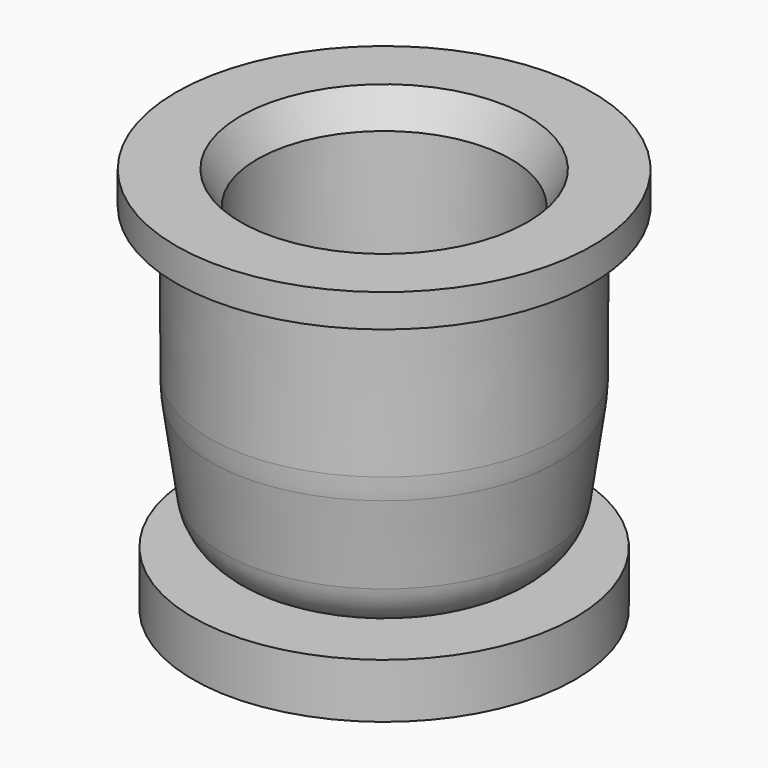
from build123d import *

# Parameters (mm, degrees)
F0_R     = 35
F1_DEPTH = 10


with BuildPart() as f1:
    # F0 (on Top) → F1 (new body)
    with BuildSketch(Plane.XY):
        Circle(F0_R)
    extrude(amount=F1_DEPTH)

    # F2 (on Front) → F3 (revolve)
    with BuildSketch(Plane.XZ):
        with BuildLine():
            Line((-26.283575, 70.897411), (-38.094532, 70.897411))
            Line((-38.094532, 70.897411), (-38.094532, 64.87011))
            Line((-38.094532, 64.87011), (-32.239489, 64.87011))
            Line((-32.239489, 64.87011), (-32.041561, 37.90903))
            ThreePointArc((-32.041561, 37.90903), (-31.961449, 35.927279), (-31.750564, 33.955151))
            Line((-31.750564, 33.955151), (-29.594322, 18.60863))
            ThreePointArc((-29.594322, 18.60863), (-26.252318, 12.453024), (-19.69159, 10))
            Line((-19.69159, 10), (-8.501253, 10))
            ThreePointArc((-8.501253, 10), (-9.799669, 10.171531), (-11.008998, 10.674353))
            Line((-11.008998, 10.674353), (-15.924307, 13.523948))
            ThreePointArc((-15.924307, 13.523948), (-19.204295, 16.590883), (-20.811549, 20.783871))
            Line((-20.811549, 20.783871), (-22.838106, 35.207384))
            ThreePointArc((-22.838106, 35.207384), (-22.985725, 36.587873), (-23.041804, 37.9751))
            Line((-23.041804, 37.9751), (-23.239732, 64.936179))
            Line((-23.239732, 64.936179), (-26.283575, 70.897411))
        make_face()
    revolve(axis=Axis((0, 0, 28.011288), (0, 0, 1)))


solid = f1.part
